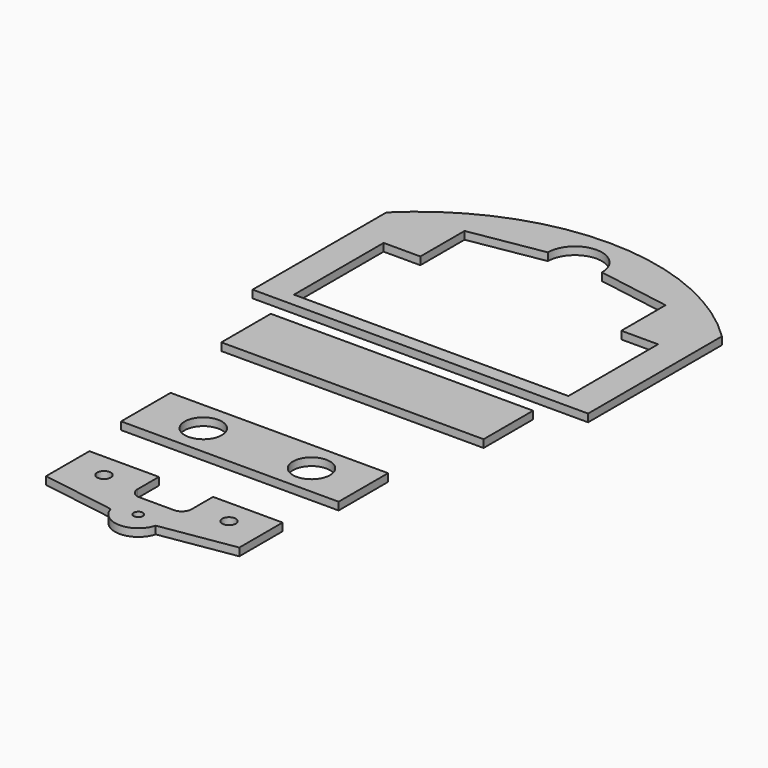
from build123d import *

# Parameters (mm, degrees)
F1_W     = 107.7214
F1_H     = 25.4
F2_W     = 89.3318
F2_H     = 25.4
F2_R     = 7.62
F3_R     = 1.9
F3_R_2   = 2.8
F4_DEPTH = 3.175


with BuildPart() as f4:
    # F0 (on Top) + F1 (on Top) + F2 (on Top) + F3 (on Top) → F4 (new body)
    with BuildSketch(Plane.XY):
        with BuildLine():
            Line((-68.8975, -79.375), (68.8975, -79.375))
            Line((68.8975, -79.375), (68.8975, -10.668))
            ThreePointArc((68.8975, -10.668), (0, 17.463792), (-68.8975, -10.668))
            Line((-68.8975, -10.668), (-68.8975, -79.375))
        make_face()
        with BuildLine():
            ThreePointArc((-11.1125, 0), (0, 11.1125), (11.1125, 0))
            Line((11.1125, 0), (41.275, -5.08))
            Line((41.275, -5.08), (41.275, -27.78125))
            Line((41.275, -27.78125), (56.35625, -27.78125))
            Line((56.35625, -27.78125), (56.35625, -73.81875))
            Line((56.35625, -73.81875), (-56.35625, -73.81875))
            Line((-56.35625, -73.81875), (-56.35625, -27.78125))
            Line((-56.35625, -27.78125), (-41.275, -27.78125))
            Line((-41.275, -27.78125), (-41.275, -5.08))
            Line((-41.275, -5.08), (-11.1125, 0))
        make_face(mode=Mode.SUBTRACT)
    with BuildSketch(Plane.XY):
        with Locations((0, -101.520441)):
            Rectangle(F1_W, F1_H)
    with BuildSketch(Plane.XY):
        with Locations((0, -164.471567)):
            Rectangle(F2_W, F2_H)
        with Locations((-21.0693, -164.471567)):
            Circle(F2_R, mode=Mode.SUBTRACT)
        with Locations((23.3807, -164.471567)):
            Circle(F2_R, mode=Mode.SUBTRACT)
    with BuildSketch(Plane.XY):
        with BuildLine():
            Line((39.685, -221.914813), (39.685, -199.694813))
            Line((39.685, -199.694813), (11.115, -199.694813))
            Line((11.115, -199.694813), (11.115, -210.694813))
            ThreePointArc((11.115, -210.694813), (9.943427, -213.52324), (7.115, -214.694813))
            Line((7.115, -214.694813), (-7.115, -214.694813))
            ThreePointArc((-7.115, -214.694813), (-9.943427, -213.52324), (-11.115, -210.694813))
            Line((-11.115, -210.694813), (-11.115, -199.694813))
            Line((-11.115, -199.694813), (-39.685, -199.694813))
            Line((-39.685, -199.694813), (-39.685, -221.914813))
            Line((-39.685, -221.914813), (-9.238393, -226.784813))
            ThreePointArc((-9.238393, -226.784813), (0, -233.774813), (9.238393, -226.784813))
            Line((9.238393, -226.784813), (39.685, -221.914813))
        make_face()
        with Locations((0, -224.174813)):
            Circle(F3_R, mode=Mode.SUBTRACT)
        with Locations((-25.675, -209.694813)):
            Circle(F3_R_2, mode=Mode.SUBTRACT)
        with Locations((25.675, -209.694813)):
            Circle(F3_R_2, mode=Mode.SUBTRACT)
    extrude(amount=F4_DEPTH)


solid = f4.part
